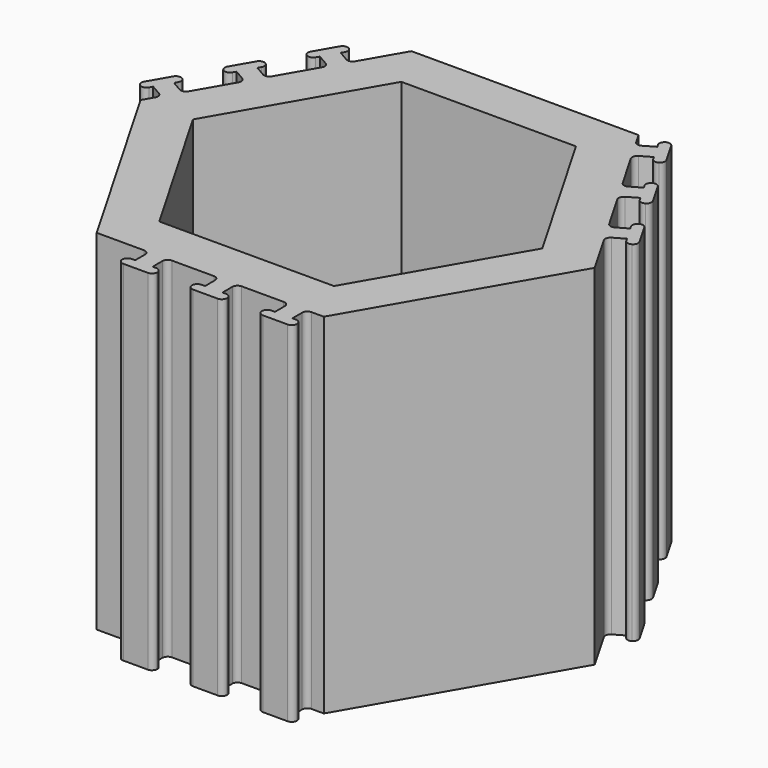
from build123d import *

# Parameters (mm, degrees)
F1_DEPTH = 100


with BuildPart() as f1:
    # F0 (on Top) → F1 (new body)
    with BuildSketch(Plane.XY):
        with BuildLine():
            Line((-63.261107, 3.031089), (-65.011107, 0))
            Line((-65.011107, 0), (-32.505553, -56.30127))
            Line((-32.505553, -56.30127), (-18.994447, -56.30127))
            Line((-18.994447, -56.30127), (-10.994447, -56.30127))
            Line((-10.994447, -56.30127), (1.005553, -56.30127))
            Line((1.005553, -56.30127), (9.005553, -56.30127))
            Line((9.005553, -56.30127), (21.005553, -56.30127))
            Line((21.005553, -56.30127), (29.005553, -56.30127))
            Line((29.005553, -56.30127), (32.505553, -56.30127))
            Line((32.505553, -56.30127), (65.011107, 0))
            Line((65.011107, 0), (58.255553, 11.700962))
            Line((58.255553, 11.700962), (54.255553, 18.629165))
            Line((54.255553, 18.629165), (48.255553, 29.02147))
            Line((48.255553, 29.02147), (44.255553, 35.949673))
            Line((44.255553, 35.949673), (38.255553, 46.341978))
            ThreePointArc((38.255553, 46.341978), (38.105703, 47.480207), (38.804592, 48.391016))
            Line((38.804592, 48.391016), (41.835681, 50.141016))
            Line((41.835681, 50.141016), (42.335681, 49.274991))
            ThreePointArc((42.335681, 49.274991), (43.24649, 48.576102), (44.384719, 48.725953))
            ThreePointArc((44.384719, 48.725953), (45.083607, 49.636762), (44.933757, 50.774991))
            Line((44.933757, 50.774991), (41.433757, 56.837169))
            ThreePointArc((41.433757, 56.837169), (40.522947, 57.536057), (39.384719, 57.386207))
            ThreePointArc((39.384719, 57.386207), (38.68583, 56.475397), (38.835681, 55.337169))
            Line((38.835681, 55.337169), (39.335681, 54.471143))
            Line((39.335681, 54.471143), (36.304592, 52.721143))
            ThreePointArc((36.304592, 52.721143), (35.166363, 52.571293), (34.255553, 53.270181))
            Line((34.255553, 53.270181), (32.505553, 56.30127))
            Line((32.505553, 56.30127), (-32.505553, 56.30127))
            Line((-32.505553, 56.30127), (-39.261107, 44.600308))
            Line((-39.261107, 44.600308), (-43.261107, 37.672105))
            Line((-43.261107, 37.672105), (-49.261107, 27.2798))
            Line((-49.261107, 27.2798), (-53.261107, 20.351597))
            Line((-53.261107, 20.351597), (-59.261107, 9.959292))
            Line((-59.261107, 9.959292), (-63.261107, 3.031089))
        make_face()
        Polygon((-50, 0), (-25, 43.30127), (25, 43.30127), (50, 0), (25, -43.30127), (-25, -43.30127), align=None, mode=Mode.SUBTRACT)
        with BuildLine():
            ThreePointArc((-63.810145, 5.080127), (-63.111256, 4.169317), (-63.261107, 3.031089))
            Line((-63.261107, 3.031089), (-59.261107, 9.959292))
            ThreePointArc((-59.261107, 9.959292), (-60.171917, 9.260403), (-61.310145, 9.410254))
            Line((-61.310145, 9.410254), (-64.341234, 11.160254))
            Line((-64.341234, 11.160254), (-63.841234, 12.026279))
            ThreePointArc((-63.841234, 12.026279), (-63.691383, 13.164508), (-64.390272, 14.075318))
            ThreePointArc((-64.390272, 14.075318), (-65.528501, 14.225168), (-66.43931, 13.526279))
            Line((-66.43931, 13.526279), (-69.93931, 7.464102))
            ThreePointArc((-69.93931, 7.464102), (-70.089161, 6.325873), (-69.390272, 5.415064))
            ThreePointArc((-69.390272, 5.415064), (-68.252044, 5.265213), (-67.341234, 5.964102))
            Line((-67.341234, 5.964102), (-66.841234, 6.830127))
            Line((-66.841234, 6.830127), (-63.810145, 5.080127))
        make_face()
        with BuildLine():
            Line((-10.994447, -56.30127), (-18.994447, -56.30127))
            ThreePointArc((-18.994447, -56.30127), (-17.933786, -56.74061), (-17.494447, -57.80127))
            Line((-17.494447, -57.80127), (-17.494447, -61.30127))
            Line((-17.494447, -61.30127), (-18.494447, -61.30127))
            ThreePointArc((-18.494447, -61.30127), (-19.555107, -61.74061), (-19.994447, -62.80127))
            ThreePointArc((-19.994447, -62.80127), (-19.555107, -63.86193), (-18.494447, -64.30127))
            Line((-18.494447, -64.30127), (-11.494447, -64.30127))
            ThreePointArc((-11.494447, -64.30127), (-10.433786, -63.86193), (-9.994447, -62.80127))
            ThreePointArc((-9.994447, -62.80127), (-10.433786, -61.74061), (-11.494447, -61.30127))
            Line((-11.494447, -61.30127), (-12.494447, -61.30127))
            Line((-12.494447, -61.30127), (-12.494447, -57.80127))
            ThreePointArc((-12.494447, -57.80127), (-12.055107, -56.74061), (-10.994447, -56.30127))
        make_face()
        with BuildLine():
            ThreePointArc((-53.810145, 22.400635), (-53.111256, 21.489826), (-53.261107, 20.351597))
            Line((-53.261107, 20.351597), (-49.261107, 27.2798))
            ThreePointArc((-49.261107, 27.2798), (-50.171917, 26.580911), (-51.310145, 26.730762))
            Line((-51.310145, 26.730762), (-54.341234, 28.480762))
            Line((-54.341234, 28.480762), (-53.841234, 29.346788))
            ThreePointArc((-53.841234, 29.346788), (-53.691383, 30.485016), (-54.390272, 31.395826))
            ThreePointArc((-54.390272, 31.395826), (-55.528501, 31.545676), (-56.43931, 30.846788))
            Line((-56.43931, 30.846788), (-59.93931, 24.78461))
            ThreePointArc((-59.93931, 24.78461), (-60.089161, 23.646381), (-59.390272, 22.735572))
            ThreePointArc((-59.390272, 22.735572), (-58.252044, 22.585721), (-57.341234, 23.28461))
            Line((-57.341234, 23.28461), (-56.841234, 24.150635))
            Line((-56.841234, 24.150635), (-53.810145, 22.400635))
        make_face()
        with BuildLine():
            Line((9.005553, -56.30127), (1.005553, -56.30127))
            ThreePointArc((1.005553, -56.30127), (2.066214, -56.74061), (2.505553, -57.80127))
            Line((2.505553, -57.80127), (2.505553, -61.30127))
            Line((2.505553, -61.30127), (1.505553, -61.30127))
            ThreePointArc((1.505553, -61.30127), (0.444893, -61.74061), (0.005553, -62.80127))
            ThreePointArc((0.005553, -62.80127), (0.444893, -63.86193), (1.505553, -64.30127))
            Line((1.505553, -64.30127), (8.505553, -64.30127))
            ThreePointArc((8.505553, -64.30127), (9.566214, -63.86193), (10.005553, -62.80127))
            ThreePointArc((10.005553, -62.80127), (9.566214, -61.74061), (8.505553, -61.30127))
            Line((8.505553, -61.30127), (7.505553, -61.30127))
            Line((7.505553, -61.30127), (7.505553, -57.80127))
            ThreePointArc((7.505553, -57.80127), (7.944893, -56.74061), (9.005553, -56.30127))
        make_face()
        with BuildLine():
            ThreePointArc((-43.810145, 39.721143), (-43.111256, 38.810334), (-43.261107, 37.672105))
            Line((-43.261107, 37.672105), (-39.261107, 44.600308))
            ThreePointArc((-39.261107, 44.600308), (-40.171917, 43.90142), (-41.310145, 44.05127))
            Line((-41.310145, 44.05127), (-44.341234, 45.80127))
            Line((-44.341234, 45.80127), (-43.841234, 46.667296))
            ThreePointArc((-43.841234, 46.667296), (-43.691383, 47.805524), (-44.390272, 48.716334))
            ThreePointArc((-44.390272, 48.716334), (-45.528501, 48.866184), (-46.43931, 48.167296))
            Line((-46.43931, 48.167296), (-49.93931, 42.105118))
            ThreePointArc((-49.93931, 42.105118), (-50.089161, 40.966889), (-49.390272, 40.05608))
            ThreePointArc((-49.390272, 40.05608), (-48.252044, 39.906229), (-47.341234, 40.605118))
            Line((-47.341234, 40.605118), (-46.841234, 41.471143))
            Line((-46.841234, 41.471143), (-43.810145, 39.721143))
        make_face()
        with BuildLine():
            Line((29.005553, -56.30127), (21.005553, -56.30127))
            ThreePointArc((21.005553, -56.30127), (22.066214, -56.74061), (22.505553, -57.80127))
            Line((22.505553, -57.80127), (22.505553, -61.30127))
            Line((22.505553, -61.30127), (21.505553, -61.30127))
            ThreePointArc((21.505553, -61.30127), (20.444893, -61.74061), (20.005553, -62.80127))
            ThreePointArc((20.005553, -62.80127), (20.444893, -63.86193), (21.505553, -64.30127))
            Line((21.505553, -64.30127), (28.505553, -64.30127))
            ThreePointArc((28.505553, -64.30127), (29.566214, -63.86193), (30.005553, -62.80127))
            ThreePointArc((30.005553, -62.80127), (29.566214, -61.74061), (28.505553, -61.30127))
            Line((28.505553, -61.30127), (27.505553, -61.30127))
            Line((27.505553, -61.30127), (27.505553, -57.80127))
            ThreePointArc((27.505553, -57.80127), (27.944893, -56.74061), (29.005553, -56.30127))
        make_face()
        with BuildLine():
            Line((54.255553, 18.629165), (58.255553, 11.700962))
            ThreePointArc((58.255553, 11.700962), (58.105703, 12.83919), (58.804592, 13.75))
            Line((58.804592, 13.75), (61.835681, 15.5))
            Line((61.835681, 15.5), (62.335681, 14.633975))
            ThreePointArc((62.335681, 14.633975), (63.24649, 13.935086), (64.384719, 14.084936))
            ThreePointArc((64.384719, 14.084936), (65.083607, 14.995746), (64.933757, 16.133975))
            Line((64.933757, 16.133975), (61.433757, 22.196152))
            ThreePointArc((61.433757, 22.196152), (60.522947, 22.895041), (59.384719, 22.745191))
            ThreePointArc((59.384719, 22.745191), (58.68583, 21.834381), (58.835681, 20.696152))
            Line((58.835681, 20.696152), (59.335681, 19.830127))
            Line((59.335681, 19.830127), (56.304592, 18.080127))
            ThreePointArc((56.304592, 18.080127), (55.166363, 17.930276), (54.255553, 18.629165))
        make_face()
        with BuildLine():
            Line((44.255553, 35.949673), (48.255553, 29.02147))
            ThreePointArc((48.255553, 29.02147), (48.105703, 30.159699), (48.804592, 31.070508))
            Line((48.804592, 31.070508), (51.835681, 32.820508))
            Line((51.835681, 32.820508), (52.335681, 31.954483))
            ThreePointArc((52.335681, 31.954483), (53.24649, 31.255594), (54.384719, 31.405445))
            ThreePointArc((54.384719, 31.405445), (55.083607, 32.316254), (54.933757, 33.454483))
            Line((54.933757, 33.454483), (51.433757, 39.51666))
            ThreePointArc((51.433757, 39.51666), (50.522947, 40.215549), (49.384719, 40.065699))
            ThreePointArc((49.384719, 40.065699), (48.68583, 39.154889), (48.835681, 38.01666))
            Line((48.835681, 38.01666), (49.335681, 37.150635))
            Line((49.335681, 37.150635), (46.304592, 35.400635))
            ThreePointArc((46.304592, 35.400635), (45.166363, 35.250784), (44.255553, 35.949673))
        make_face()
    extrude(amount=F1_DEPTH)


solid = f1.part
